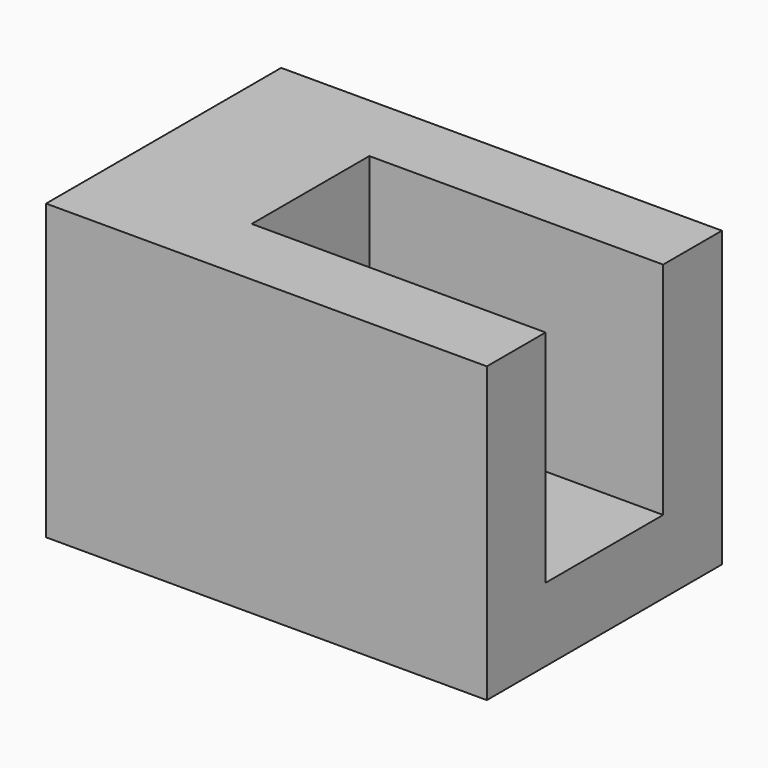
from build123d import *

# Parameters (mm, degrees)
F0_W     = 38.1
F0_H     = 25.4
F1_DEPTH = 25.4
F2_W     = 12.7
F2_H     = 19.05
F3_DEPTH = 25.4


with BuildPart() as f1:
    # F0 (on Front) → F1 (new body)
    with BuildSketch(Plane.XZ):
        with Locations((-19.05, 12.7)):
            Rectangle(F0_W, F0_H)
    extrude(amount=F1_DEPTH)

    # F2 (on face) → F3 (cut)
    with BuildSketch(Plane.YZ):
        with Locations((-12.7, 15.875)):
            Rectangle(F2_W, F2_H)
    extrude(amount=-F3_DEPTH, mode=Mode.SUBTRACT)


solid = f1.part
